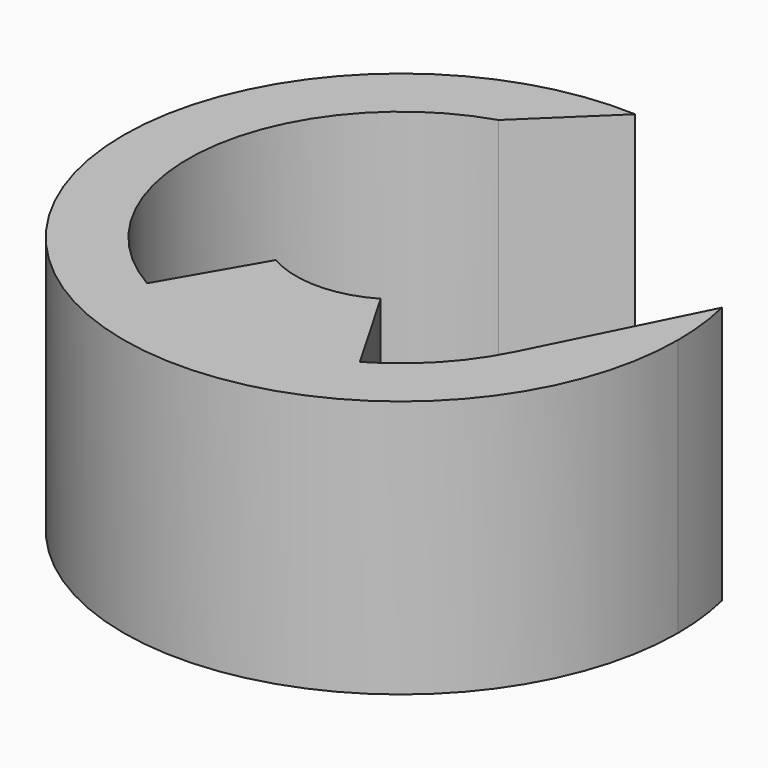
from build123d import *

# Parameters (mm, degrees)
F1_DEPTH = 8
F2_START = 2
F2_DEPTH = 6


with BuildPart() as f1:
    # F0 (on Top) → F1 (new body)
    with BuildSketch(Plane.XY):
        with BuildLine():
            ThreePointArc((-3.3, -5.715767665), (-6.5617421952, 0.7096050761), (-2.0017585965, 6.2891146055))
            Line((-2.0017585965, 6.2891146055), (0.3925608787, 8.5910357907))
            ThreePointArc((0.3925608787, 8.5910357907), (-6.2183608594, -5.9407060373), (8.6, 0))
            ThreePointArc((8.6, 0), (8.5417281837, 0.9994396606), (8.3677024104, 1.9853353294))
            Line((8.3677024104, 1.9853353294), (5.9051277539, -2.9477900553))
            ThreePointArc((5.9051277539, -2.9477900553), (4.8061439069, -4.523381561), (3.3, -5.715767665))
            ThreePointArc((3.3, -5.715767665), (0, -6.6), (-3.3, -5.715767665))
        make_face()
    extrude(amount=F1_DEPTH)

    # F0 (on Top) → F2 (join)
    with BuildSketch(Plane.XY.offset(F2_START)):
        with BuildLine():
            Line((-1.625, -2.8145825623), (-3.3, -5.715767665))
            ThreePointArc((-3.3, -5.715767665), (0, -6.6), (3.3, -5.715767665))
            Line((3.3, -5.715767665), (1.625, -2.8145825623))
            ThreePointArc((1.625, -2.8145825623), (0, -3.25), (-1.625, -2.8145825623))
        make_face()
    extrude(amount=F2_DEPTH)


solid = f1.part
